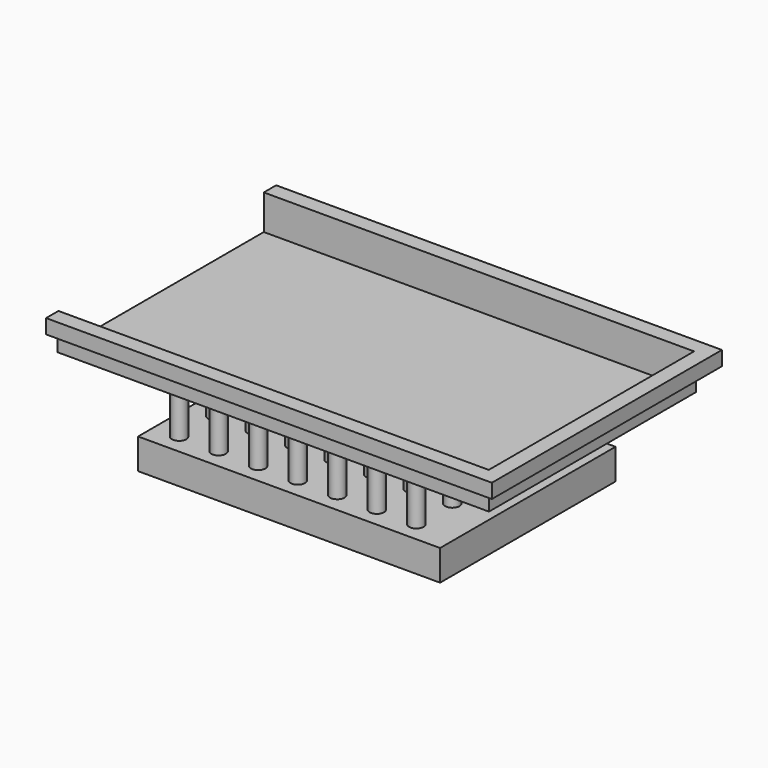
from build123d import *

# Parameters (mm, degrees)
F0_W      = 1200
F0_H      = 720
F1_DEPTH  = 100
F2_T      = -3
F3_DEPTH  = 3
F4_R      = 20
F5_DEPTH  = 170
F6_W      = 840
F6_H      = 610
F7_DEPTH  = 85
F9_DEPTH  = 35
F11_DEPTH = 1200
F12_W     = 40
F12_H     = 800
F13_DEPTH = 2
F15_DEPTH = 38


with BuildPart() as f1:
    # F0 (on Top) → F1 (new body)
    with BuildSketch(Plane.XY):
        Rectangle(F0_W, F0_H)
    extrude(amount=F1_DEPTH)

    # F2
    f2_openings = [f1.faces().sort_by_distance(p)[0] for p in [
        (0, 0, 100),
    ]]
    offset(amount=F2_T, openings=f2_openings)

    # F3 (cut, through all): a face of the model
    f3_faces = [f1.faces().sort_by_distance(p)[0] for p in [
        (-597, 0, 51.5),
    ]]
    extrude(f3_faces, amount=-F3_DEPTH, mode=Mode.SUBTRACT)

    # F4 (on face) → F5 (join)
    with BuildSketch(Plane(origin=(0, 0, 0), x_dir=(1, 0, 0), z_dir=(0, 0, -1))):
        with Locations((-350, 250)):
            Circle(F4_R)
        with Locations((-350, 125)):
            Circle(F4_R)
        with Locations((-350, 0)):
            Circle(F4_R)
        with Locations((-350, -125)):
            Circle(F4_R)
        with Locations((-240, 250)):
            Circle(F4_R)
        with Locations((-240, 125)):
            Circle(F4_R)
        with Locations((-240, 0)):
            Circle(F4_R)
        with Locations((-240, -125)):
            Circle(F4_R)
        with Locations((-130, 250)):
            Circle(F4_R)
        with Locations((-130, 125)):
            Circle(F4_R)
        with Locations((-130, 0)):
            Circle(F4_R)
        with Locations((-130, -125)):
            Circle(F4_R)
        with Locations((-20, 250)):
            Circle(F4_R)
        with Locations((-20, 125)):
            Circle(F4_R)
        with Locations((-20, 0)):
            Circle(F4_R)
        with Locations((-20, -125)):
            Circle(F4_R)
        with Locations((90, 250)):
            Circle(F4_R)
        with Locations((90, 125)):
            Circle(F4_R)
        with Locations((90, 0)):
            Circle(F4_R)
        with Locations((90, -125)):
            Circle(F4_R)
        with Locations((200, 250)):
            Circle(F4_R)
        with Locations((200, 125)):
            Circle(F4_R)
        with Locations((200, 0)):
            Circle(F4_R)
        with Locations((200, -125)):
            Circle(F4_R)
        with Locations((310, 250)):
            Circle(F4_R)
        with Locations((310, 125)):
            Circle(F4_R)
        with Locations((310, 0)):
            Circle(F4_R)
        with Locations((310, -125)):
            Circle(F4_R)
        with Locations((-350, -250)):
            Circle(F4_R)
        with Locations((-240, -250)):
            Circle(F4_R)
        with Locations((-130, -250)):
            Circle(F4_R)
        with Locations((-20, -250)):
            Circle(F4_R)
        with Locations((90, -250)):
            Circle(F4_R)
        with Locations((200, -250)):
            Circle(F4_R)
        with Locations((310, -250)):
            Circle(F4_R)
    extrude(amount=F5_DEPTH)

    # F6 (on face) → F7 (join)
    with BuildSketch(Plane(origin=(0, 0, -170), x_dir=(1, 0, 0), z_dir=(0, 0, -1))):
        Rectangle(F6_W, F6_H)
    extrude(amount=F7_DEPTH)

    # F8 (on face) → F9 (join)
    with BuildSketch(Plane(origin=(0, 0, -255), x_dir=(1, 0, 0), z_dir=(0, 0, -1))):
        with BuildLine():
            Line((-300, 200), (-350, 200))
            ThreePointArc((-350, 200), (-400, 150), (-350, 100))
            Line((-350, 100), (-300, 100))
            ThreePointArc((-300, 100), (-250, 150), (-300, 200))
        make_face()
        with BuildLine():
            Line((250, 200), (200, 200))
            ThreePointArc((200, 200), (150, 150), (200, 100))
            Line((200, 100), (250, 100))
            ThreePointArc((250, 100), (300, 150), (250, 200))
        make_face()
        with BuildLine():
            Line((-300, -100), (-350, -100))
            ThreePointArc((-350, -100), (-400, -150), (-350, -200))
            Line((-350, -200), (-300, -200))
            ThreePointArc((-300, -200), (-250, -150), (-300, -100))
        make_face()
        with BuildLine():
            Line((250, -100), (200, -100))
            ThreePointArc((200, -100), (150, -150), (200, -200))
            Line((200, -200), (250, -200))
            ThreePointArc((250, -200), (300, -150), (250, -100))
        make_face()
    extrude(amount=F9_DEPTH)

    # F10 (on face) → F11 (join)
    with BuildSketch(Plane.YZ.offset(600)):
        Polygon((400, 100), (360, 100), (360, 98), (398, 98), (398, 60), (400, 60), align=None)
        Polygon((-360, 98), (-360, 100), (-400, 100), (-400, 60), (-398, 60), (-398, 98), align=None)
    extrude(amount=-F11_DEPTH)

    # F12 (on face) → F13 (join)
    with BuildSketch(Plane.XY.offset(100)):
        with Locations((620, 0)):
            Rectangle(F12_W, F12_H)
    extrude(amount=-F13_DEPTH)

    # F14 (on face) → F15 (join)
    with BuildSketch(Plane(origin=(0, 0, 98), x_dir=(1, 0, 0), z_dir=(0, 0, -1))):
        Polygon((638, -398), (600, -398), (600, -400), (640, -400), (640, 400), (600, 400), (600, 398), (638, 398), align=None)
    extrude(amount=F15_DEPTH)


solid = f1.part
